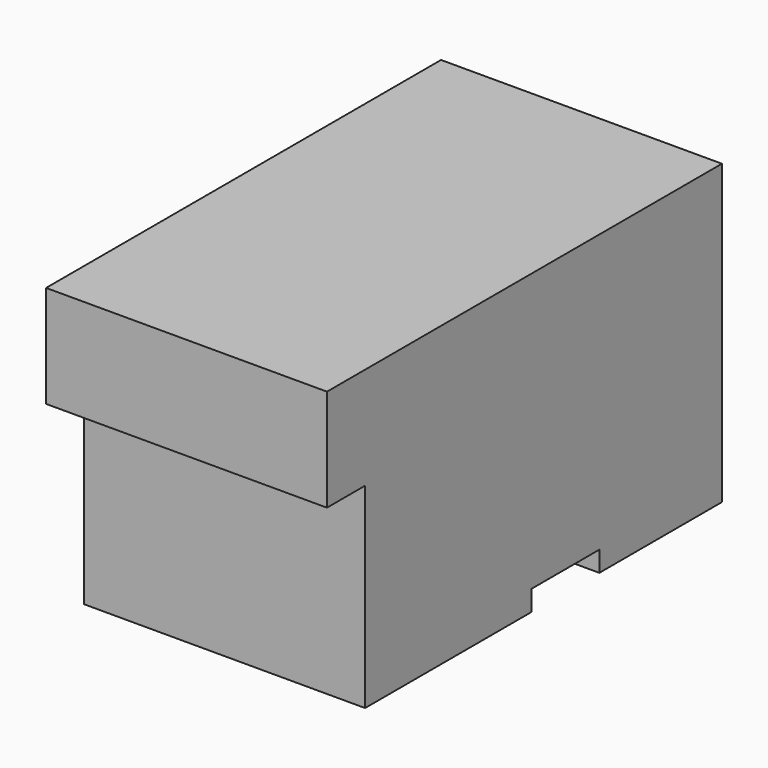
from build123d import *

# Parameters (mm, degrees)
F0_W     = 584.2
F0_H     = 1828.8
F1_DEPTH = 2095.5
F2_DEPTH = 101.6


with BuildPart() as f1:
    # F0 (on Right) → F1 (new body)
    with BuildSketch(Plane.YZ):
        Polygon((0, 1460.5), (0, 0), (1549.4, 0), (1549.4, 152.4), (2184.4, 152.4), (2184.4, 0), (2286, 0), (2286, 1828.8), (2870.2, 1828.8), (2870.2, 0), (3327.4, 0), (3327.4, 2222.5), (-355.6, 2222.5), (-355.6, 1460.5), align=None)
        with Locations((2578.1, 914.4)):
            Rectangle(F0_W, F0_H)
    extrude(amount=F1_DEPTH)

    # F0 (on Right) → F2 (cut)
    with BuildSketch(Plane.YZ):
        with Locations((2578.1, 914.4)):
            Rectangle(F0_W, F0_H)
    extrude(amount=F2_DEPTH, mode=Mode.SUBTRACT)


solid = f1.part
